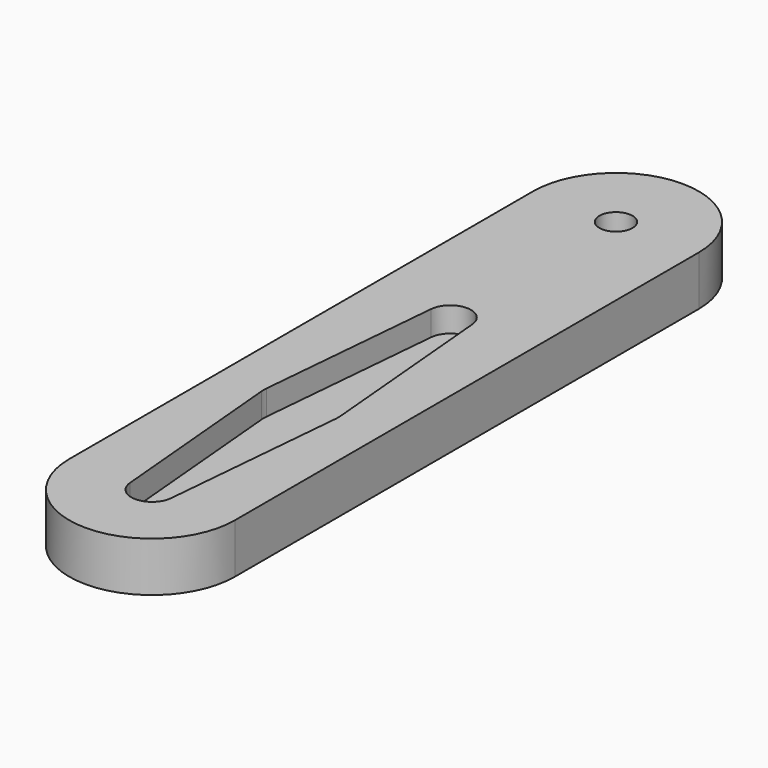
from build123d import *

# Parameters (mm, degrees)
PAD_DEPTH         = 3
PAD001_DEPTH      = 6
SKETCH002_R       = 2
POCKET_DEPTH      = 6.001
POCKET_DEPTH_BACK = -0.001


with BuildPart() as horn:
    # Sketch → Pad (new body)
    with BuildSketch(Plane.XY):
        with BuildLine():
            ThreePointArc((-2.490104, -0.222222), (0, -2.5), (2.490104, -0.222222))
            Line((4.482187, 22.1), (2.490104, -0.222222))
            ThreePointArc((4.482187, 22.1), (4.5, 22.5), (4.482187, 22.9))
            Line((2.490104, 45.222222), (4.482187, 22.9))
            ThreePointArc((2.490104, 45.222222), (0, 47.5), (-2.490104, 45.222222))
            Line((-2.490104, 45.222222), (-4.482187, 22.9))
            ThreePointArc((-4.482187, 22.9), (-4.5, 22.5), (-4.482187, 22.1))
            Line((-4.482187, 22.1), (-2.490104, -0.222222))
        make_face()
    extrude(amount=-PAD_DEPTH)


with BuildPart() as cut:
    # Sketch001 → Pad001 (new body)
    with BuildSketch(Plane.XY):
        with BuildLine():
            ThreePointArc((-10, 0), (0, -10), (10, 0))
            Line((10, 0), (10, 70))
            ThreePointArc((10, 70), (0, 80), (-10, 70))
            Line((-10, 0), (-10, 70))
        make_face()
    extrude(amount=-PAD001_DEPTH)

    # Sketch002 → Pocket (cut, two sides)
    with BuildSketch(Plane.XY) as pocket_sk:
        with Locations((0, 70)):
            Circle(SKETCH002_R)
    extrude(amount=-POCKET_DEPTH, mode=Mode.SUBTRACT)
    extrude(pocket_sk.sketch, amount=-POCKET_DEPTH_BACK, mode=Mode.SUBTRACT)

    # Cut: cut Horn
    add(horn.part, mode=Mode.SUBTRACT)


solid = cut.part
